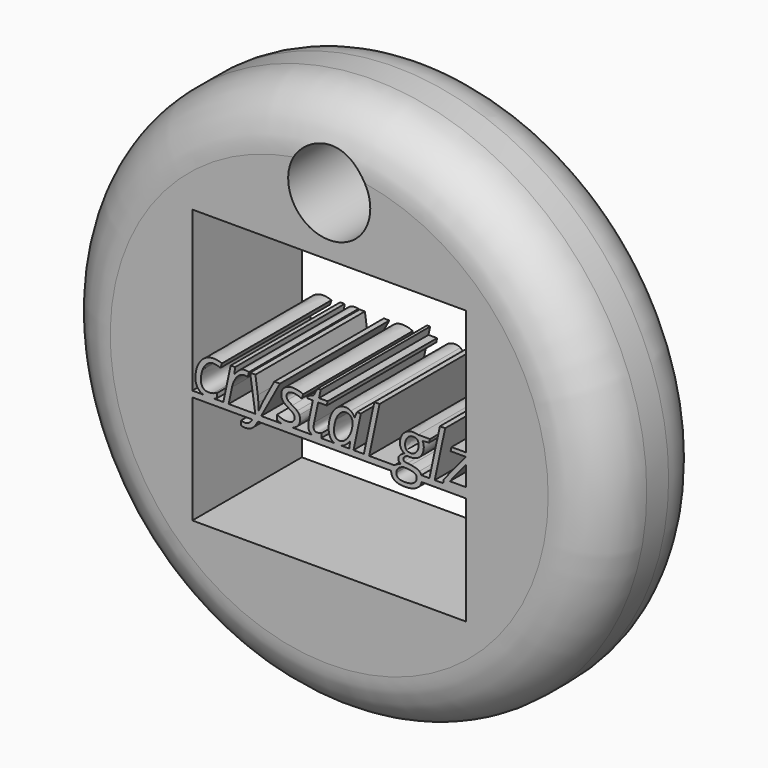
from build123d import *

# Parameters (mm, degrees)
F0_R     = 50
F1_DEPTH = 25
F2_W     = 50
F2_H     = 50
F3_DEPTH = 25
F5_DEPTH = 25
F6_R     = 10
F7_R     = 7.5
F8_DEPTH = 26


with BuildPart() as f1:
    # F0 (on Front) → F1 (new body)
    with BuildSketch(Plane.XZ):
        Circle(F0_R)
    extrude(amount=F1_DEPTH)

    # F2 (on face) → F3 (cut)
    with BuildSketch(Plane.XZ.offset(25)):
        Rectangle(F2_W, F2_H)
    extrude(amount=-F3_DEPTH, mode=Mode.SUBTRACT)

    # F4 (on face) → F5 (join)
    with BuildSketch(Plane.XZ.offset(25)):
        with BuildLine():
            Line((-17.9966801372, 2.2004120555), (-19.3468065895, -4.1167779709))
            Line((-19.3468065895, -4.1167779709), (-18.3784781913, -4.1167779709))
            Line((-18.3784781913, -4.1167779709), (-17.7605924515, -1.2228593866))
            add(Edge.make_bspline(
                [(-17.2570616844, 0.1401781111), (-17.6001266027, -0.4740187586), (-17.7605924515, -1.2228593866)],
                knots=[0, 0, 0, 1, 1, 1], degree=2))
            add(Edge.make_bspline(
                [(-16.4556546577, 1.1002065516), (-16.9139967662, 0.7543749808), (-17.2570616844, 0.1401781111)],
                knots=[0, 0, 0, 1, 1, 1], degree=2))
            add(Edge.make_bspline(
                [(-15.4734929967, 1.4460381224), (-15.9973125492, 1.4460381224), (-16.4556546577, 1.1002065516)],
                knots=[0, 0, 0, 1, 1, 1], degree=2))
            add(Edge.make_bspline(
                [(-14.8666738672, 1.3704162856), (-15.1728500845, 1.4460381224), (-15.4734929967, 1.4460381224)],
                knots=[0, 0, 0, 1, 1, 1], degree=2))
            Line((-14.8666738672, 1.3704162856), (-14.6600971422, 2.2354563213))
            add(Edge.make_bspline(
                [(-15.3517602838, 2.3166114633), (-14.9533623142, 2.3166114633), (-14.6600971422, 2.2354563213)],
                knots=[0, 0, 0, 1, 1, 1], degree=2))
            add(Edge.make_bspline(
                [(-16.0120680296, 2.1865787926), (-15.7151139875, 2.3166114633), (-15.3517602838, 2.3166114633)],
                knots=[0, 0, 0, 1, 1, 1], degree=2))
            add(Edge.make_bspline(
                [(-16.5792318057, 1.8176917838), (-16.3090220717, 2.056546122), (-16.0120680296, 2.1865787926)],
                knots=[0, 0, 0, 1, 1, 1], degree=2))
            add(Edge.make_bspline(
                [(-17.2644394246, 1.0310402374), (-16.8494415397, 1.5788374456), (-16.5792318057, 1.8176917838)],
                knots=[0, 0, 0, 1, 1, 1], degree=2))
            Line((-17.2644394246, 1.0310402374), (-17.323461346, 1.0310402374))
            Line((-17.323461346, 1.0310402374), (-17.196195328, 2.2004120555))
            Line((-17.196195328, 2.2004120555), (-17.9966801372, 2.2004120555))
        make_face()
        with BuildLine():
            Line((-18.3784781913, -4.1167779709), (-19.3468065895, -4.1167779709))
            Line((-19.3468065895, -4.1167779709), (-21.1443776816, -4.1167779709))
            add(Edge.make_bspline(
                [(-21.1443776816, -4.1167779709), (-21.5885046935, -4.2329773787), (-22.0839481951, -4.2329773787)],
                knots=[0.4344940723, 0.4344940723, 0.4344940723, 1, 1, 1], degree=2))
            add(Edge.make_bspline(
                [(-22.0839481951, -4.2329773787), (-22.5690224252, -4.2329773787), (-22.9597823378, -4.1167779709)],
                knots=[0, 0, 0, 0.4339824964, 0.4339824964, 0.4339824964], degree=2))
            Line((-22.9597823378, -4.1167779709), (-25, -4.1167779709))
            Line((-25, -4.1167779709), (-25, -5.1973736845))
            Line((-25, -5.1973736845), (-14.0406892376, -5.1973736845))
            add(Edge.make_bspline(
                [(-14.0406892376, -5.1973736845), (-13.9839556172, -5.1050602281), (-13.9278564297, -5.0039512272)],
                knots=[0.8231664116, 0.8231664116, 0.8231664116, 1, 1, 1], degree=2))
            Line((-13.9278564297, -5.0039512272), (-13.4907253242, -4.2200663334))
            Line((-13.4907253242, -4.2200663334), (-13.5061251116, -4.1167779709))
            Line((-13.5061251116, -4.1167779709), (-18.3784781913, -4.1167779709))
        make_face()
        with BuildLine():
            add(Edge.make_bspline(
                [(-21.1443776816, -4.1167779709), (-21.5885046935, -4.2329773787), (-22.0839481951, -4.2329773787)],
                knots=[0.4344940723, 0.4344940723, 0.4344940723, 1, 1, 1], degree=2))
            Line((-21.1443776816, -4.1167779709), (-22.9597823378, -4.1167779709))
            add(Edge.make_bspline(
                [(-22.0839481951, -4.2329773787), (-22.5690224252, -4.2329773787), (-22.9597823378, -4.1167779709)],
                knots=[0, 0, 0, 0.4339824964, 0.4339824964, 0.4339824964], degree=2))
        make_face()
        with BuildLine():
            Line((-22.9597823378, -4.1167779709), (-21.1443776816, -4.1167779709))
            add(Edge.make_bspline(
                [(-20.492200752, -3.869623675), (-20.8031424362, -4.0274987054), (-21.1443776816, -4.1167779709)],
                knots=[0, 0, 0, 0.4344940723, 0.4344940723, 0.4344940723], degree=2))
            Line((-20.492200752, -3.869623675), (-20.492200752, -3.0451612102))
            add(Edge.make_bspline(
                [(-21.2189081594, -3.3153709442), (-20.8500211505, -3.200093754), (-20.492200752, -3.0451612102)],
                knots=[0, 0, 0, 1, 1, 1], degree=2))
            add(Edge.make_bspline(
                [(-22.0027930532, -3.4306481345), (-21.5877951682, -3.4306481345), (-21.2189081594, -3.3153709442)],
                knots=[0, 0, 0, 1, 1, 1], degree=2))
            add(Edge.make_bspline(
                [(-23.060576551, -3.0211835547), (-22.6778562793, -3.4306481345), (-22.0027930532, -3.4306481345)],
                knots=[0, 0, 0, 1, 1, 1], degree=2))
            add(Edge.make_bspline(
                [(-23.4432968227, -1.8739449572), (-23.4432968227, -2.6117189749), (-23.060576551, -3.0211835547)],
                knots=[0, 0, 0, 1, 1, 1], degree=2))
            add(Edge.make_bspline(
                [(-23.1408094754, -0.1650758887), (-23.4432968227, -0.9517274351), (-23.4432968227, -1.8739449572)],
                knots=[0, 0, 0, 1, 1, 1], degree=2))
            add(Edge.make_bspline(
                [(-22.3052804004, 1.0623956332), (-22.8383221282, 0.6215756576), (-23.1408094754, -0.1650758887)],
                knots=[0, 0, 0, 1, 1, 1], degree=2))
            add(Edge.make_bspline(
                [(-21.1266864072, 1.5032156088), (-21.7722386726, 1.5032156088), (-22.3052804004, 1.0623956332)],
                knots=[0, 0, 0, 1, 1, 1], degree=2))
            add(Edge.make_bspline(
                [(-19.8650928369, 1.2099504367), (-20.5567559785, 1.5032156088), (-21.1266864072, 1.5032156088)],
                knots=[0, 0, 0, 1, 1, 1], degree=2))
            Line((-19.8650928369, 1.2099504367), (-19.5939608854, 2.0215018562))
            add(Edge.make_bspline(
                [(-21.1377530174, 2.3166114633), (-20.3483348185, 2.3166114633), (-19.5939608854, 2.0215018562)],
                knots=[0, 0, 0, 1, 1, 1], degree=2))
            add(Edge.make_bspline(
                [(-22.8300221705, 1.7715809077), (-22.07841489, 2.3166114633), (-21.1377530174, 2.3166114633)],
                knots=[0, 0, 0, 1, 1, 1], degree=2))
            add(Edge.make_bspline(
                [(-24.0086161637, 0.2526886488), (-23.581629451, 1.2265503521), (-22.8300221705, 1.7715809077)],
                knots=[0, 0, 0, 1, 1, 1], degree=2))
            add(Edge.make_bspline(
                [(-24.4356028765, -1.8739449572), (-24.4356028765, -0.7211730545), (-24.0086161637, 0.2526886488)],
                knots=[0, 0, 0, 1, 1, 1], degree=2))
            add(Edge.make_bspline(
                [(-23.8186393542, -3.6160138564), (-24.4356028765, -2.9990503341), (-24.4356028765, -1.8739449572)],
                knots=[0, 0, 0, 1, 1, 1], degree=2))
            add(Edge.make_bspline(
                [(-22.9597823378, -4.1167779709), (-23.4694272015, -3.9652260091), (-23.8186393542, -3.6160138564)],
                knots=[0.4339824964, 0.4339824964, 0.4339824964, 1, 1, 1], degree=2))
        make_face()
        with BuildLine():
            Line((-14.4479871121, 2.2004120555), (-13.5061251116, -4.1167779709))
            Line((-13.5061251116, -4.1167779709), (-12.4367310676, -4.1167779709))
            Line((-12.4367310676, -4.1167779709), (-9.0069037317, 2.2004120555))
            Line((-9.0069037317, 2.2004120555), (-10.0324096163, 2.2004120555))
            Line((-10.0324096163, 2.2004120555), (-11.9063556212, -1.3095478336))
            add(Edge.make_bspline(
                [(-12.3499422493, -2.2087099177), (-12.0502215547, -1.5567021296), (-11.9063556212, -1.3095478336)],
                knots=[0, 0, 0, 1, 1, 1], degree=2))
            add(Edge.make_bspline(
                [(-12.8507063638, -3.3624040378), (-12.649662944, -2.8607177058), (-12.3499422493, -2.2087099177)],
                knots=[0, 0, 0, 1, 1, 1], degree=2))
            Line((-12.8507063638, -3.3624040378), (-12.8857506297, -3.3624040378))
            add(Edge.make_bspline(
                [(-12.9401614635, -2.1137215129), (-12.8857506297, -2.8883842315), (-12.8857506297, -3.3624040378)],
                knots=[0, 0, 0, 1, 1, 1], degree=2))
            add(Edge.make_bspline(
                [(-13.0517497837, -0.9406608248), (-12.9945722973, -1.3390587944), (-12.9401614635, -2.1137215129)],
                knots=[0, 0, 0, 1, 1, 1], degree=2))
            Line((-13.0517497837, -0.9406608248), (-13.4796587139, 2.2004120555))
            Line((-13.4796587139, 2.2004120555), (-14.4479871121, 2.2004120555))
        make_face()
        with BuildLine():
            Line((-12.4367310676, -4.1167779709), (-13.5061251116, -4.1167779709))
            Line((-13.5061251116, -4.1167779709), (-13.4907253242, -4.2200663334))
            Line((-13.4907253242, -4.2200663334), (-13.9278564297, -5.0039512272))
            add(Edge.make_bspline(
                [(-14.0406892376, -5.1973736845), (-13.9839556172, -5.1050602281), (-13.9278564297, -5.0039512272)],
                knots=[0.8231664116, 0.8231664116, 0.8231664116, 1, 1, 1], degree=2))
            Line((-14.0406892376, -5.1973736845), (-13.0233964044, -5.1973736845))
            add(Edge.make_bspline(
                [(-13.0185499529, -5.1883947316), (-13.0209732827, -5.1928904263), (-13.0233964044, -5.1973736845)],
                knots=[0, 0, 0, 0.0045305526, 0.0045305526, 0.0045305526], degree=2))
            Line((-13.0185499529, -5.1883947316), (-12.4367310676, -4.1167779709))
        make_face()
        with BuildLine():
            Line((-8.7528577315, -4.1167779709), (-12.4367310676, -4.1167779709))
            Line((-12.4367310676, -4.1167779709), (-13.0185499529, -5.1883947316))
            add(Edge.make_bspline(
                [(-13.0185499529, -5.1883947316), (-13.0209732827, -5.1928904263), (-13.0233964044, -5.1973736845)],
                knots=[0, 0, 0, 0.0045305526, 0.0045305526, 0.0045305526], degree=2))
            Line((-13.0233964044, -5.1973736845), (11.3296207443, -5.1973736845))
            add(Edge.make_bspline(
                [(11.3296207443, -5.1973736845), (11.3712775512, -4.6770762076), (11.7393016455, -4.2836993424)],
                knots=[0.113190434, 0.113190434, 0.113190434, 1, 1, 1], degree=2))
            add(Edge.make_bspline(
                [(11.7393016455, -4.2836993424), (11.8196985988, -4.1977639323), (11.9193395622, -4.1167779709)],
                knots=[0, 0, 0, 0.1937285856, 0.1937285856, 0.1937285856], degree=2))
            Line((11.9193395622, -4.1167779709), (7.2886798838, -4.1167779709))
            Line((7.2886798838, -4.1167779709), (6.3203514856, -4.1167779709))
            Line((6.3203514856, -4.1167779709), (4.4353388704, -4.1167779709))
            Line((4.4353388704, -4.1167779709), (3.668053892, -4.1167779709))
            Line((3.668053892, -4.1167779709), (2.2663487231, -4.1167779709))
            add(Edge.make_bspline(
                [(2.2663487231, -4.1167779709), (1.9372607932, -4.2329773787), (1.5985977724, -4.2329773787)],
                knots=[0.7033708935, 0.7033708935, 0.7033708935, 1, 1, 1], degree=2))
            add(Edge.make_bspline(
                [(1.5985977724, -4.2329773787), (1.2374432623, -4.2329773787), (0.9464964719, -4.1167779709)],
                knots=[0, 0, 0, 0.4511697237, 0.4511697237, 0.4511697237], degree=2))
            Line((0.9464964719, -4.1167779709), (-1.6374756403, -4.1167779709))
            add(Edge.make_bspline(
                [(-1.6374756403, -4.1167779709), (-1.7499774048, -4.1482493212), (-1.881851156, -4.1748776748)],
                knots=[0.541678325, 0.541678325, 0.541678325, 1, 1, 1], degree=2))
            add(Edge.make_bspline(
                [(-1.881851156, -4.1748776748), (-2.1695830229, -4.2329773787), (-2.342959917, -4.2329773787)],
                knots=[0, 0, 0, 1, 1, 1], degree=2))
            add(Edge.make_bspline(
                [(-2.342959917, -4.2329773787), (-2.7626743707, -4.2329773787), (-3.0677512366, -4.1167779709)],
                knots=[0, 0, 0, 0.5819876952, 0.5819876952, 0.5819876952], degree=2))
            Line((-3.0677512366, -4.1167779709), (-6.7645539874, -4.1167779709))
            add(Edge.make_bspline(
                [(-6.7645539874, -4.1167779709), (-7.2004538025, -4.2329773787), (-7.7563767718, -4.2329773787)],
                knots=[0.5200548477, 0.5200548477, 0.5200548477, 1, 1, 1], degree=2))
            add(Edge.make_bspline(
                [(-7.7563767718, -4.2329773787), (-8.282322203, -4.2329773787), (-8.7528577315, -4.1167779709)],
                knots=[0, 0, 0, 0.5400617249, 0.5400617249, 0.5400617249], degree=2))
        make_face()
        with BuildLine():
            add(Edge.make_bspline(
                [(-8.7528577315, -4.1167779709), (-9.1535847029, -4.0178178841), (-9.5141233689, -3.8345794092)],
                knots=[0.5400617249, 0.5400617249, 0.5400617249, 1, 1, 1], degree=2))
            Line((-8.7528577315, -4.1167779709), (-6.7645539874, -4.1167779709))
            add(Edge.make_bspline(
                [(-5.9608192562, -3.7285243941), (-6.2922254081, -3.9908676142), (-6.7645539874, -4.1167779709)],
                knots=[0, 0, 0, 0.5200548477, 0.5200548477, 0.5200548477], degree=2))
            add(Edge.make_bspline(
                [(-5.3235669485, -2.323987108), (-5.3235669485, -3.2240714095), (-5.9608192562, -3.7285243941)],
                knots=[0, 0, 0, 1, 1, 1], degree=2))
            add(Edge.make_bspline(
                [(-5.4563662716, -1.6812014951), (-5.3235669485, -1.9661667094), (-5.3235669485, -2.323987108)],
                knots=[0, 0, 0, 1, 1, 1], degree=2))
            add(Edge.make_bspline(
                [(-5.8566086762, -1.1481597673), (-5.5891655948, -1.3962362807), (-5.4563662716, -1.6812014951)],
                knots=[0, 0, 0, 1, 1, 1], degree=2))
            add(Edge.make_bspline(
                [(-6.7419374974, -0.5551739006), (-6.1240517576, -0.9000832538), (-5.8566086762, -1.1481597673)],
                knots=[0, 0, 0, 1, 1, 1], degree=2))
            add(Edge.make_bspline(
                [(-7.5866887477, 0.0387341837), (-7.3819564578, -0.1918201969), (-6.7419374974, -0.5551739006)],
                knots=[0, 0, 0, 1, 1, 1], degree=2))
            add(Edge.make_bspline(
                [(-7.7914210376, 0.5920646969), (-7.7914210376, 0.2692885642), (-7.5866887477, 0.0387341837)],
                knots=[0, 0, 0, 1, 1, 1], degree=2))
            add(Edge.make_bspline(
                [(-7.4852448203, 1.2413058325), (-7.7914210376, 0.9904626665), (-7.7914210376, 0.5920646969)],
                knots=[0, 0, 0, 1, 1, 1], degree=2))
            add(Edge.make_bspline(
                [(-6.6441824401, 1.4921489985), (-7.1790686029, 1.4921489985), (-7.4852448203, 1.2413058325)],
                knots=[0, 0, 0, 1, 1, 1], degree=2))
            add(Edge.make_bspline(
                [(-5.3752111297, 1.2431502675), (-5.9580526037, 1.4921489985), (-6.6441824401, 1.4921489985)],
                knots=[0, 0, 0, 1, 1, 1], degree=2))
            Line((-5.3752111297, 1.2431502675), (-5.052434997, 1.0992843341))
            Line((-5.052434997, 1.0992843341), (-4.7407254745, 1.888702533))
            add(Edge.make_bspline(
                [(-6.6441824401, 2.3166114633), (-5.6574096915, 2.3166114633), (-4.7407254745, 1.888702533)],
                knots=[0, 0, 0, 1, 1, 1], degree=2))
            add(Edge.make_bspline(
                [(-8.1769079618, 1.8287583941), (-7.5940664879, 2.3166114633), (-6.6441824401, 2.3166114633)],
                knots=[0, 0, 0, 1, 1, 1], degree=2))
            add(Edge.make_bspline(
                [(-8.7597494358, 0.5459538208), (-8.7597494358, 1.3409053249), (-8.1769079618, 1.8287583941)],
                knots=[0, 0, 0, 1, 1, 1], degree=2))
            add(Edge.make_bspline(
                [(-8.4480399133, -0.4103857496), (-8.7597494358, -0.0073766924), (-8.7597494358, 0.5459538208)],
                knots=[0, 0, 0, 1, 1, 1], degree=2))
            add(Edge.make_bspline(
                [(-7.3874897629, -1.2339259968), (-8.1363303909, -0.8133948068), (-8.4480399133, -0.4103857496)],
                knots=[0, 0, 0, 1, 1, 1], degree=2))
            add(Edge.make_bspline(
                [(-6.5169164221, -1.8518117366), (-6.7179598419, -1.6267906612), (-7.3874897629, -1.2339259968)],
                knots=[0, 0, 0, 1, 1, 1], degree=2))
            add(Edge.make_bspline(
                [(-6.3158730022, -2.4051422499), (-6.3158730022, -2.076832812), (-6.5169164221, -1.8518117366)],
                knots=[0, 0, 0, 1, 1, 1], degree=2))
            add(Edge.make_bspline(
                [(-6.6847600111, -3.1429162676), (-6.3158730022, -2.8551844007), (-6.3158730022, -2.4051422499)],
                knots=[0, 0, 0, 1, 1, 1], degree=2))
            add(Edge.make_bspline(
                [(-7.7785099923, -3.4306481345), (-7.0536470199, -3.4306481345), (-6.6847600111, -3.1429162676)],
                knots=[0, 0, 0, 1, 1, 1], degree=2))
            add(Edge.make_bspline(
                [(-8.643550028, -3.2978488113), (-8.1769079618, -3.4306481345), (-7.7785099923, -3.4306481345)],
                knots=[0, 0, 0, 1, 1, 1], degree=2))
            add(Edge.make_bspline(
                [(-9.5141233689, -2.9234284973), (-9.1101920942, -3.1650494881), (-8.643550028, -3.2978488113)],
                knots=[0, 0, 0, 1, 1, 1], degree=2))
            Line((-9.5141233689, -2.9234284973), (-9.5141233689, -3.8345794092))
        make_face()
        with BuildLine():
            Line((-6.7645539874, -4.1167779709), (-8.7528577315, -4.1167779709))
            add(Edge.make_bspline(
                [(-7.7563767718, -4.2329773787), (-8.282322203, -4.2329773787), (-8.7528577315, -4.1167779709)],
                knots=[0, 0, 0, 0.5400617249, 0.5400617249, 0.5400617249], degree=2))
            add(Edge.make_bspline(
                [(-6.7645539874, -4.1167779709), (-7.2004538025, -4.2329773787), (-7.7563767718, -4.2329773787)],
                knots=[0.5200548477, 0.5200548477, 0.5200548477, 1, 1, 1], degree=2))
        make_face()
        with BuildLine():
            add(Edge.make_bspline(
                [(-13.0233964044, -5.1973736845), (-13.5558134859, -6.1824514323), (-14.0781778858, -6.5671099271)],
                knots=[0.0045305526, 0.0045305526, 0.0045305526, 1, 1, 1], degree=2))
            Line((-13.0233964044, -5.1973736845), (-14.0406892376, -5.1973736845))
            add(Edge.make_bspline(
                [(-14.5826308703, -5.8662246103), (-14.3047861836, -5.6270959865), (-14.0406892376, -5.1973736845)],
                knots=[0, 0, 0, 0.8231664116, 0.8231664116, 0.8231664116], degree=2))
            add(Edge.make_bspline(
                [(-15.3923378548, -6.1567231298), (-14.9201624834, -6.1567231298), (-14.5826308703, -5.8662246103)],
                knots=[0, 0, 0, 1, 1, 1], degree=2))
            add(Edge.make_bspline(
                [(-16.1485562229, -6.0534347673), (-15.7852025192, -6.1567231298), (-15.3923378548, -6.1567231298)],
                knots=[0, 0, 0, 1, 1, 1], degree=2))
            Line((-16.1485562229, -6.0534347673), (-16.1485562229, -6.831786356))
            add(Edge.make_bspline(
                [(-15.3406936735, -6.9535190689), (-15.7556915585, -6.9535190689), (-16.1485562229, -6.831786356)],
                knots=[0, 0, 0, 1, 1, 1], degree=2))
            add(Edge.make_bspline(
                [(-14.0781778858, -6.5671099271), (-14.6029196558, -6.9535190689), (-15.3406936735, -6.9535190689)],
                knots=[0, 0, 0, 1, 1, 1], degree=2))
        make_face()
        with BuildLine():
            add(Edge.make_bspline(
                [(-3.0677512366, -4.1167779709), (-3.2868725081, -4.0333178176), (-3.446854291, -3.8899124605)],
                knots=[0.5819876952, 0.5819876952, 0.5819876952, 1, 1, 1], degree=2))
            Line((-3.0677512366, -4.1167779709), (-1.6374756403, -4.1167779709))
            add(Edge.make_bspline(
                [(-1.3986091744, -4.035622829), (-1.5045127658, -4.0795828103), (-1.6374756403, -4.1167779709)],
                knots=[0, 0, 0, 0.541678325, 0.541678325, 0.541678325], degree=2))
            Line((-1.3986091744, -4.035622829), (-1.3986091744, -3.2923155062))
            add(Edge.make_bspline(
                [(-2.2286049443, -3.4417147447), (-1.9113621167, -3.4417147447), (-1.3986091744, -3.2923155062)],
                knots=[0, 0, 0, 1, 1, 1], degree=2))
            add(Edge.make_bspline(
                [(-2.6943247929, -3.2692600681), (-2.5274034214, -3.4417147447), (-2.2286049443, -3.4417147447)],
                knots=[0, 0, 0, 1, 1, 1], degree=2))
            add(Edge.make_bspline(
                [(-2.8612461644, -2.7740292587), (-2.8612461644, -3.0968053915), (-2.6943247929, -3.2692600681)],
                knots=[0, 0, 0, 1, 1, 1], degree=2))
            add(Edge.make_bspline(
                [(-2.757957802, -2.0122775855), (-2.8612461644, -2.5139639175), (-2.8612461644, -2.7740292587)],
                knots=[0, 0, 0, 1, 1, 1], degree=2))
            Line((-2.757957802, -2.0122775855), (-2.0146504792, 1.4681713429))
            Line((-2.0146504792, 1.4681713429), (-0.4413473864, 1.4681713429))
            Line((-0.4413473864, 1.4681713429), (-0.2919481479, 2.2004120555))
            Line((-0.2919481479, 2.2004120555), (-1.8707845457, 2.2004120555))
            Line((-1.8707845457, 2.2004120555), (-1.5535417181, 3.6538268703))
            Line((-1.5535417181, 3.6538268703), (-2.1179388416, 3.6538268703))
            Line((-2.1179388416, 3.6538268703), (-2.8391129439, 2.3387446838))
            Line((-2.8391129439, 2.3387446838), (-3.9051963995, 1.888702533))
            Line((-3.9051963995, 1.888702533), (-3.9863515414, 1.4681713429))
            Line((-3.9863515414, 1.4681713429), (-2.9940454876, 1.4681713429))
            Line((-2.9940454876, 1.4681713429), (-3.7262862002, -2.0012109752))
            add(Edge.make_bspline(
                [(-3.8295745626, -2.866251011), (-3.8295745626, -2.4862973918), (-3.7262862002, -2.0012109752)],
                knots=[0, 0, 0, 1, 1, 1], degree=2))
            add(Edge.make_bspline(
                [(-3.446854291, -3.8899124605), (-3.8295745626, -3.5468475423), (-3.8295745626, -2.866251011)],
                knots=[0, 0, 0, 1, 1, 1], degree=2))
        make_face()
        with BuildLine():
            Line((-1.6374756403, -4.1167779709), (-3.0677512366, -4.1167779709))
            add(Edge.make_bspline(
                [(-2.342959917, -4.2329773787), (-2.7626743707, -4.2329773787), (-3.0677512366, -4.1167779709)],
                knots=[0, 0, 0, 0.5819876952, 0.5819876952, 0.5819876952], degree=2))
            add(Edge.make_bspline(
                [(-1.881851156, -4.1748776748), (-2.1695830229, -4.2329773787), (-2.342959917, -4.2329773787)],
                knots=[0, 0, 0, 1, 1, 1], degree=2))
            add(Edge.make_bspline(
                [(-1.6374756403, -4.1167779709), (-1.7499774048, -4.1482493212), (-1.881851156, -4.1748776748)],
                knots=[0.541678325, 0.541678325, 0.541678325, 1, 1, 1], degree=2))
        make_face()
        with BuildLine():
            add(Edge.make_bspline(
                [(11.3296207443, -5.1973736845), (11.3712775512, -4.6770762076), (11.7393016455, -4.2836993424)],
                knots=[0.113190434, 0.113190434, 0.113190434, 1, 1, 1], degree=2))
            Line((11.3296207443, -5.1973736845), (12.2582342585, -5.1973736845))
            add(Edge.make_bspline(
                [(12.6264749017, -4.3639322668), (12.2730292621, -4.7120762219), (12.2582342585, -5.1973736845)],
                knots=[0, 0, 0, 0.9581406532, 0.9581406532, 0.9581406532], degree=2))
            add(Edge.make_bspline(
                [(12.9581943185, -4.1167779709), (12.7684339105, -4.2241026432), (12.6264749017, -4.3639322668)],
                knots=[0.6151694004, 0.6151694004, 0.6151694004, 1, 1, 1], degree=2))
            Line((12.9581943185, -4.1167779709), (11.9193395622, -4.1167779709))
            add(Edge.make_bspline(
                [(11.7393016455, -4.2836993424), (11.8196985988, -4.1977639323), (11.9193395622, -4.1167779709)],
                knots=[0, 0, 0, 0.1937285856, 0.1937285856, 0.1937285856], degree=2))
        make_face()
        with BuildLine():
            Line((12.2582342585, -5.1973736845), (11.3296207443, -5.1973736845))
            add(Edge.make_bspline(
                [(11.3243037605, -5.3322606651), (11.3243037605, -5.2637833168), (11.3296207443, -5.1973736845)],
                knots=[0, 0, 0, 0.113190434, 0.113190434, 0.113190434], degree=2))
            add(Edge.make_bspline(
                [(11.9587894157, -6.5292990087), (11.3243037605, -6.1050789486), (11.3243037605, -5.3322606651)],
                knots=[0, 0, 0, 1, 1, 1], degree=2))
            add(Edge.make_bspline(
                [(13.7110027077, -6.9535190689), (12.5932750709, -6.9535190689), (11.9587894157, -6.5292990087)],
                knots=[0, 0, 0, 1, 1, 1], degree=2))
            add(Edge.make_bspline(
                [(16.080179522, -6.3706775949), (15.2381949243, -6.9535190689), (13.7110027077, -6.9535190689)],
                knots=[0, 0, 0, 1, 1, 1], degree=2))
            add(Edge.make_bspline(
                [(16.8760795845, -5.1973736845), (16.725180697, -5.9241926632), (16.080179522, -6.3706775949)],
                knots=[0.2339513373, 0.2339513373, 0.2339513373, 1, 1, 1], degree=2))
            Line((16.8760795845, -5.1973736845), (15.916087276, -5.1973736845))
            add(Edge.make_bspline(
                [(15.3848275103, -5.8367136496), (15.7878239613, -5.5871199039), (15.916087276, -5.1973736845)],
                knots=[0, 0, 0, 0.6817259448, 0.6817259448, 0.6817259448], degree=2))
            add(Edge.make_bspline(
                [(13.7460469736, -6.2028340059), (14.7936860787, -6.2028340059), (15.3848275103, -5.8367136496)],
                knots=[0, 0, 0, 1, 1, 1], degree=2))
            add(Edge.make_bspline(
                [(12.6329304244, -5.9436908822), (13.0082729559, -6.2028340059), (13.7460469736, -6.2028340059)],
                knots=[0, 0, 0, 1, 1, 1], degree=2))
            add(Edge.make_bspline(
                [(12.2575878929, -5.2400389128), (12.2575878929, -5.6845477585), (12.6329304244, -5.9436908822)],
                knots=[0, 0, 0, 1, 1, 1], degree=2))
            add(Edge.make_bspline(
                [(12.2582342585, -5.1973736845), (12.2575878929, -5.2185754096), (12.2575878929, -5.2400389128)],
                knots=[0.9581406532, 0.9581406532, 0.9581406532, 1, 1, 1], degree=2))
        make_face()
        with BuildLine():
            add(Edge.make_bspline(
                [(0.9464964719, -4.1167779709), (0.5925711107, -3.9754259481), (0.3425375073, -3.6621247325)],
                knots=[0.4511697237, 0.4511697237, 0.4511697237, 1, 1, 1], degree=2))
            Line((0.9464964719, -4.1167779709), (2.2663487231, -4.1167779709))
            add(Edge.make_bspline(
                [(3.7731866896, -2.9123618871), (3.0466864115, -3.8412443854), (2.2663487231, -4.1167779709)],
                knots=[0, 0, 0, 0.7033708935, 0.7033708935, 0.7033708935], degree=2))
            Line((3.7731866896, -2.9123618871), (3.8192975657, -2.9123618871))
            Line((3.8192975657, -2.9123618871), (3.668053892, -4.1167779709))
            Line((3.668053892, -4.1167779709), (4.4353388704, -4.1167779709))
            Line((4.4353388704, -4.1167779709), (5.7780875826, 2.2004120555))
            Line((5.7780875826, 2.2004120555), (5.0458468701, 2.2004120555))
            Line((5.0458468701, 2.2004120555), (4.6603599458, 1.2099504367))
            Line((4.6603599458, 1.2099504367), (4.5958047193, 1.2099504367))
            add(Edge.make_bspline(
                [(3.9502524538, 2.0307240314), (4.3652503387, 1.7448365996), (4.5958047193, 1.2099504367)],
                knots=[0, 0, 0, 1, 1, 1], degree=2))
            add(Edge.make_bspline(
                [(3.0059017112, 2.3166114633), (3.5352545689, 2.3166114633), (3.9502524538, 2.0307240314)],
                knots=[0, 0, 0, 1, 1, 1], degree=2))
            add(Edge.make_bspline(
                [(1.4261430958, 1.7337699893), (2.1463949806, 2.3166114633), (3.0059017112, 2.3166114633)],
                knots=[0, 0, 0, 1, 1, 1], degree=2))
            add(Edge.make_bspline(
                [(0.2964266312, 0.1254226307), (0.705891211, 1.1509285153), (1.4261430958, 1.7337699893)],
                knots=[0, 0, 0, 1, 1, 1], degree=2))
            add(Edge.make_bspline(
                [(-0.1130379486, -2.0989660326), (-0.1130379486, -0.9000832538), (0.2964266312, 0.1254226307)],
                knots=[0, 0, 0, 1, 1, 1], degree=2))
            add(Edge.make_bspline(
                [(0.3425375073, -3.6621247325), (-0.1130379486, -3.0912720863), (-0.1130379486, -2.0989660326)],
                knots=[0, 0, 0, 1, 1, 1], degree=2))
        make_face()
        with BuildLine():
            add(Edge.make_bspline(
                [(1.9103072949, -3.4306481345), (2.4691711133, -3.4306481345), (3.0225016266, -2.8976064067)],
                knots=[0, 0, 0, 1, 1, 1], degree=2))
            add(Edge.make_bspline(
                [(1.1504000567, -3.1051053492), (1.4215320082, -3.4306481345), (1.9103072949, -3.4306481345)],
                knots=[0, 0, 0, 1, 1, 1], degree=2))
            add(Edge.make_bspline(
                [(0.8792681052, -2.1229436881), (0.8792681052, -2.7795625639), (1.1504000567, -3.1051053492)],
                knots=[0, 0, 0, 1, 1, 1], degree=2))
            add(Edge.make_bspline(
                [(1.1734554948, -0.3356861303), (0.8792681052, -1.1822818156), (0.8792681052, -2.1229436881)],
                knots=[0, 0, 0, 1, 1, 1], degree=2))
            add(Edge.make_bspline(
                [(1.9831624792, 1.0070625819), (1.4676428843, 0.510909555), (1.1734554948, -0.3356861303)],
                knots=[0, 0, 0, 1, 1, 1], degree=2))
            add(Edge.make_bspline(
                [(3.0981234634, 1.5032156088), (2.498682074, 1.5032156088), (1.9831624792, 1.0070625819)],
                knots=[0, 0, 0, 1, 1, 1], degree=2))
            add(Edge.make_bspline(
                [(3.9447191487, 1.1518507328), (3.6219430159, 1.5032156088), (3.0981234634, 1.5032156088)],
                knots=[0, 0, 0, 1, 1, 1], degree=2))
            add(Edge.make_bspline(
                [(4.2674952814, 0.2065777727), (4.2674952814, 0.8004858569), (3.9447191487, 1.1518507328)],
                knots=[0, 0, 0, 1, 1, 1], degree=2))
            add(Edge.make_bspline(
                [(3.9216637106, -1.5087468184), (4.2674952814, -0.6529289579), (4.2674952814, 0.2065777727)],
                knots=[0, 0, 0, 1, 1, 1], degree=2))
            add(Edge.make_bspline(
                [(3.0225016266, -2.8976064067), (3.5758321398, -2.3645646789), (3.9216637106, -1.5087468184)],
                knots=[0, 0, 0, 1, 1, 1], degree=2))
        make_face(mode=Mode.SUBTRACT)
        with BuildLine():
            Line((2.2663487231, -4.1167779709), (0.9464964719, -4.1167779709))
            add(Edge.make_bspline(
                [(1.5985977724, -4.2329773787), (1.2374432623, -4.2329773787), (0.9464964719, -4.1167779709)],
                knots=[0, 0, 0, 0.4511697237, 0.4511697237, 0.4511697237], degree=2))
            add(Edge.make_bspline(
                [(2.2663487231, -4.1167779709), (1.9372607932, -4.2329773787), (1.5985977724, -4.2329773787)],
                knots=[0.7033708935, 0.7033708935, 0.7033708935, 1, 1, 1], degree=2))
        make_face()
        with BuildLine():
            add(Edge.make_bspline(
                [(15.916087276, -5.1973736845), (15.975968942, -5.0154147746), (15.975968942, -4.8029078074)],
                knots=[0.6817259448, 0.6817259448, 0.6817259448, 1, 1, 1], degree=2))
            Line((15.916087276, -5.1973736845), (16.8760795845, -5.1973736845))
            add(Edge.make_bspline(
                [(16.9221641197, -4.7272859706), (16.9221641197, -4.9754030965), (16.8760795845, -5.1973736845)],
                knots=[0, 0, 0, 0.2339513373, 0.2339513373, 0.2339513373], degree=2))
            add(Edge.make_bspline(
                [(16.8197963741, -4.1167779709), (16.9221641197, -4.3830920832), (16.9221641197, -4.7272859706)],
                knots=[0.5334697629, 0.5334697629, 0.5334697629, 1, 1, 1], degree=2))
            Line((16.8197963741, -4.1167779709), (15.4186615584, -4.1167779709))
            add(Edge.make_bspline(
                [(15.665181637, -4.2375884663), (15.5648462759, -4.1705989819), (15.4186615584, -4.1167779709)],
                knots=[0, 0, 0, 0.3228425341, 0.3228425341, 0.3228425341], degree=2))
            add(Edge.make_bspline(
                [(15.975968942, -4.8029078074), (15.975968942, -4.4450874088), (15.665181637, -4.2375884663)],
                knots=[0, 0, 0, 1, 1, 1], degree=2))
        make_face()
        with BuildLine():
            add(Edge.make_bspline(
                [(11.9193395622, -4.1167779709), (12.334031386, -3.7797256694), (13.0820503576, -3.5284031918)],
                knots=[0.1937285856, 0.1937285856, 0.1937285856, 1, 1, 1], degree=2))
            Line((11.9193395622, -4.1167779709), (12.9581943185, -4.1167779709))
            add(Edge.make_bspline(
                [(13.6870250521, -3.8567126297), (13.2615350521, -3.9452145497), (12.9581943185, -4.1167779709)],
                knots=[0, 0, 0, 0.6151694004, 0.6151694004, 0.6151694004], degree=2))
            Line((13.6870250521, -3.8567126297), (14.6037092691, -3.9489343819))
            add(Edge.make_bspline(
                [(15.4186615584, -4.1167779709), (15.112041264, -4.0038891922), (14.6037092691, -3.9489343819)],
                knots=[0.3228425341, 0.3228425341, 0.3228425341, 1, 1, 1], degree=2))
            Line((15.4186615584, -4.1167779709), (16.8197963741, -4.1167779709))
            add(Edge.make_bspline(
                [(16.4518331834, -3.6095583338), (16.7027405165, -3.8122521009), (16.8197963741, -4.1167779709)],
                knots=[0, 0, 0, 0.5334697629, 0.5334697629, 0.5334697629], degree=2))
            add(Edge.make_bspline(
                [(14.9393964472, -3.1023386966), (15.9815022471, -3.2296047147), (16.4518331834, -3.6095583338)],
                knots=[0, 0, 0, 1, 1, 1], degree=2))
            Line((14.9393964472, -3.1023386966), (14.264333221, -3.0211835547))
            add(Edge.make_bspline(
                [(13.7110027077, -2.8976064067), (13.9009795173, -2.9750726786), (14.264333221, -3.0211835547)],
                knots=[0, 0, 0, 1, 1, 1], degree=2))
            add(Edge.make_bspline(
                [(13.5210258982, -2.5840524492), (13.5210258982, -2.8201401348), (13.7110027077, -2.8976064067)],
                knots=[0, 0, 0, 1, 1, 1], degree=2))
            add(Edge.make_bspline(
                [(14.3215107073, -1.8278340811), (13.5210258982, -2.1340102984), (13.5210258982, -2.5840524492)],
                knots=[0, 0, 0, 1, 1, 1], degree=2))
            add(Edge.make_bspline(
                [(14.806597124, -1.8739449572), (14.4893542964, -1.8739449572), (14.3215107073, -1.8278340811)],
                knots=[0, 0, 0, 1, 1, 1], degree=2))
            add(Edge.make_bspline(
                [(16.601232422, -1.220092734), (15.9298580659, -1.8739449572), (14.806597124, -1.8739449572)],
                knots=[0, 0, 0, 1, 1, 1], degree=2))
            add(Edge.make_bspline(
                [(17.2726067781, 0.5348872106), (17.2726067781, -0.5662405108), (16.601232422, -1.220092734)],
                knots=[0, 0, 0, 1, 1, 1], degree=2))
            add(Edge.make_bspline(
                [(17.0365190924, 1.4460381224), (17.2726067781, 1.0882177238), (17.2726067781, 0.5348872106)],
                knots=[0, 0, 0, 1, 1, 1], degree=2))
            Line((17.0365190924, 1.4460381224), (18.2520017865, 1.5843707507))
            Line((18.2520017865, 1.5843707507), (18.397712155, 2.2004120555))
            Line((18.397712155, 2.2004120555), (16.2581675038, 2.2004120555))
            add(Edge.make_bspline(
                [(15.3709942475, 2.3166114633), (15.8210363983, 2.3166114633), (16.2581675038, 2.2004120555)],
                knots=[0, 0, 0, 1, 1, 1], degree=2))
            add(Edge.make_bspline(
                [(13.6104809978, 1.6018928836), (14.2993774868, 2.3166114633), (15.3709942475, 2.3166114633)],
                knots=[0, 0, 0, 1, 1, 1], degree=2))
            add(Edge.make_bspline(
                [(12.9215845088, -0.2323977678), (12.9215845088, 0.887174304), (13.6104809978, 1.6018928836)],
                knots=[0, 0, 0, 1, 1, 1], degree=2))
            add(Edge.make_bspline(
                [(13.1521388893, -1.0706934954), (12.9215845088, -0.7101064443), (12.9215845088, -0.2323977678)],
                knots=[0, 0, 0, 1, 1, 1], degree=2))
            add(Edge.make_bspline(
                [(13.7460469736, -1.615724051), (13.3826932698, -1.4312805466), (13.1521388893, -1.0706934954)],
                knots=[0, 0, 0, 1, 1, 1], degree=2))
            add(Edge.make_bspline(
                [(12.9271178139, -2.1478435612), (13.220382986, -1.8628783469), (13.7460469736, -1.615724051)],
                knots=[0, 0, 0, 1, 1, 1], degree=2))
            add(Edge.make_bspline(
                [(12.6338526419, -2.8312067451), (12.6338526419, -2.4328087756), (12.9271178139, -2.1478435612)],
                knots=[0, 0, 0, 1, 1, 1], degree=2))
            add(Edge.make_bspline(
                [(13.0820503576, -3.5284031918), (12.6338526419, -3.2923155062), (12.6338526419, -2.8312067451)],
                knots=[0, 0, 0, 1, 1, 1], degree=2))
        make_face()
        with BuildLine():
            add(Edge.make_bspline(
                [(13.8604019463, -0.197353502), (13.8604019463, -0.6879732237), (14.11954507, -0.9443496949)],
                knots=[0, 0, 0, 1, 1, 1], degree=2))
            add(Edge.make_bspline(
                [(14.0476121033, 0.7110307573), (13.8604019463, 0.2932662198), (13.8604019463, -0.197353502)],
                knots=[0, 0, 0, 1, 1, 1], degree=2))
            add(Edge.make_bspline(
                [(14.5723538734, 1.3621163279), (14.2348222603, 1.1287952948), (14.0476121033, 0.7110307573)],
                knots=[0, 0, 0, 1, 1, 1], degree=2))
            add(Edge.make_bspline(
                [(15.3599276372, 1.595437361), (14.9098854864, 1.595437361), (14.5723538734, 1.3621163279)],
                knots=[0, 0, 0, 1, 1, 1], degree=2))
            add(Edge.make_bspline(
                [(16.0857128271, 1.3473608475), (15.8321030085, 1.595437361), (15.3599276372, 1.595437361)],
                knots=[0, 0, 0, 1, 1, 1], degree=2))
            add(Edge.make_bspline(
                [(16.3393226457, 0.6271089628), (16.3393226457, 1.0992843341), (16.0857128271, 1.3473608475)],
                knots=[0, 0, 0, 1, 1, 1], degree=2))
            add(Edge.make_bspline(
                [(16.1576457938, -0.2923419068), (16.3393226457, 0.1309559359), (16.3393226457, 0.6271089628)],
                knots=[0, 0, 0, 1, 1, 1], degree=2))
            add(Edge.make_bspline(
                [(15.6356706763, -0.9581829577), (15.975968942, -0.7156397494), (16.1576457938, -0.2923419068)],
                knots=[0, 0, 0, 1, 1, 1], degree=2))
            add(Edge.make_bspline(
                [(14.8397969548, -1.200726166), (15.2953724107, -1.200726166), (15.6356706763, -0.9581829577)],
                knots=[0, 0, 0, 1, 1, 1], degree=2))
            add(Edge.make_bspline(
                [(14.11954507, -0.9443496949), (14.3786881937, -1.200726166), (14.8397969548, -1.200726166)],
                knots=[0, 0, 0, 1, 1, 1], degree=2))
        make_face(mode=Mode.SUBTRACT)
        with BuildLine():
            add(Edge.make_bspline(
                [(16.9221641197, -4.7272859706), (16.9221641197, -4.9754030965), (16.8760795845, -5.1973736845)],
                knots=[0, 0, 0, 0.2339513373, 0.2339513373, 0.2339513373], degree=2))
            Line((16.8760795845, -5.1973736845), (25, -5.1973736845))
            Line((25, -5.1973736845), (25, -4.1167779709))
            Line((25, -4.1167779709), (24.9436121269, -4.1167779709))
            Line((24.9436121269, -4.1167779709), (20.7991665826, -4.1167779709))
            Line((20.7991665826, -4.1167779709), (19.2664410609, -4.1167779709))
            Line((19.2664410609, -4.1167779709), (18.2981126626, -4.1167779709))
            Line((18.2981126626, -4.1167779709), (16.8197963741, -4.1167779709))
            add(Edge.make_bspline(
                [(16.8197963741, -4.1167779709), (16.9221641197, -4.3830920832), (16.9221641197, -4.7272859706)],
                knots=[0.5334697629, 0.5334697629, 0.5334697629, 1, 1, 1], degree=2))
        make_face()
        Polygon((6.3203514856, -4.1167779709), (7.2886798838, -4.1167779709), (9.2032034597, 4.852709649), (8.2348750615, 4.852709649), align=None)
        Polygon((20.7991665826, -4.1167779709), (24.9436121269, -4.1167779709), (25.0874780604, -3.3956038686), (22.027560322, -3.3956038686), (25.946984791, 1.3943939412), (26.11482838, 2.2004120555), (22.3282032342, 2.2004120555), (22.1714262555, 1.4792379532), (24.9325455166, 1.4792379532), (20.9319659058, -3.4417147447), align=None)
        Polygon((20.2126362385, 4.852709649), (18.2981126626, -4.1167779709), (19.2664410609, -4.1167779709), (21.1809646367, 4.852709649), align=None)
    extrude(amount=-F5_DEPTH)

    # F6
    f6_edges = [f1.edges().sort_by_distance(p)[0] for p in [
        (-50, 0, 0),
        (-50, -25, 0),
    ]]
    fillet(f6_edges, radius=F6_R)

    # F7 (on face) → F8 (cut)
    with BuildSketch(Plane.XZ.offset(25)):
        with Locations((0, 35.7230193913)):
            Circle(F7_R)
    extrude(amount=-F8_DEPTH, mode=Mode.SUBTRACT)


solid = f1.part
